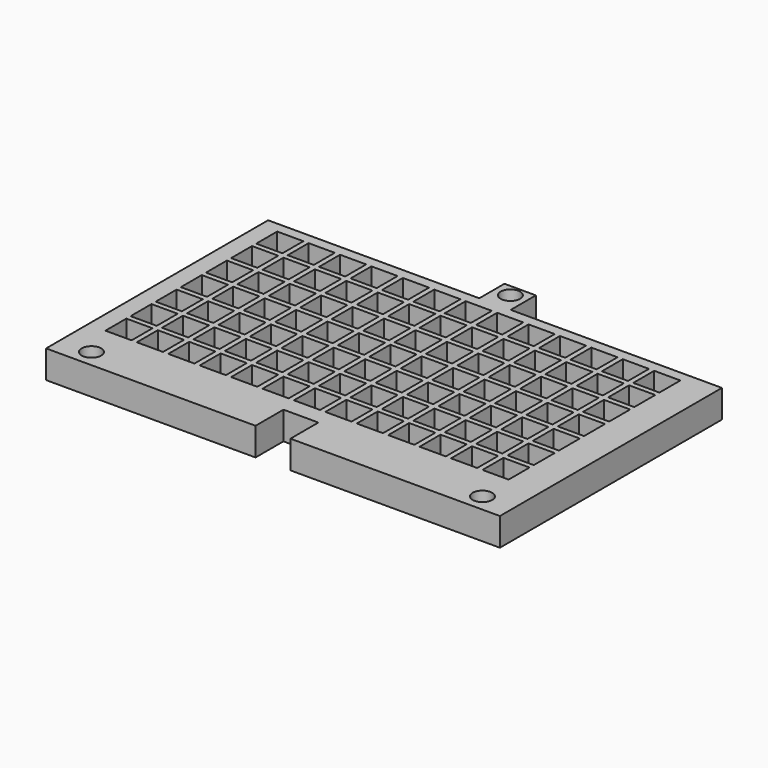
from build123d import *

# Parameters (mm, degrees)
SKETCH001_R      = 2.8
EXTRUDE001_DEPTH = 10
BOX001_W         = 7.5
BOX001_H         = 7.5
BOX001_DEPTH     = 8
ARRAY001_X_COUNT = 13
ARRAY001_X_PITCH = 9
ARRAY001_Y_COUNT = 7
ARRAY001_Y_PITCH = 9
SKETCH_R         = 1.75
EXTRUDE_DEPTH    = 8


with BuildPart() as extrude001:
    # Sketch001 → Extrude001 (new body)
    with BuildSketch(Plane.XY):
        with Locations((0, 40)):
            Circle(SKETCH001_R)
        with Locations((56, -40)):
            Circle(SKETCH001_R)
        with Locations((-56, -40)):
            Circle(SKETCH001_R)
    extrude(amount=EXTRUDE001_DEPTH)


with BuildPart() as extrude001_1:
    # Extrude001 placement: moved
    add(extrude001.part.moved(Location((0, 0, 2))))


with BuildPart() as fusion:
    # Box001 → Box001 (new body)
    with BuildSketch(Plane(origin=(-60, -30, 1), x_dir=(1, 0, 0), z_dir=(0, 0, 1))):
        with Locations((3.75, 3.75)):
            Rectangle(BOX001_W, BOX001_H)
    extrude(amount=BOX001_DEPTH)

    # Array001 X: Fusion ×13


with BuildPart() as fusion_1:
    add(fusion.part)
    with Locations(*[(i * ARRAY001_X_PITCH, 0, 0) for i in range(1, ARRAY001_X_COUNT)]):
        add(fusion.part)

    # Array001 Y: Fusion ×7


with BuildPart() as fusion_2:
    add(fusion_1.part)
    with Locations(*[(0, i * ARRAY001_Y_PITCH, 0) for i in range(1, ARRAY001_Y_COUNT)]):
        add(fusion_1.part)

    # Fusion: union Extrude001
    add(extrude001_1.part)


with BuildPart() as cut:
    # Sketch → Extrude (new body)
    with BuildSketch(Plane.XY):
        Polygon((-65, -45), (-5, -45), (-5, -35), (5, -35), (5, -45), (65, -45), (65, 34.5), (4.5, 34.5), (4.5, 43.5), (-4.5, 43.5), (-4.5, 34.5), (-65, 34.5), align=None)
        with Locations((0, 40)):
            Circle(SKETCH_R, mode=Mode.SUBTRACT)
        with Locations((56, -40)):
            Circle(SKETCH_R, mode=Mode.SUBTRACT)
        with Locations((-56, -40)):
            Circle(SKETCH_R, mode=Mode.SUBTRACT)
    extrude(amount=EXTRUDE_DEPTH)

    # Cut: cut Fusion
    add(fusion_2.part, mode=Mode.SUBTRACT)


solid = cut.part
